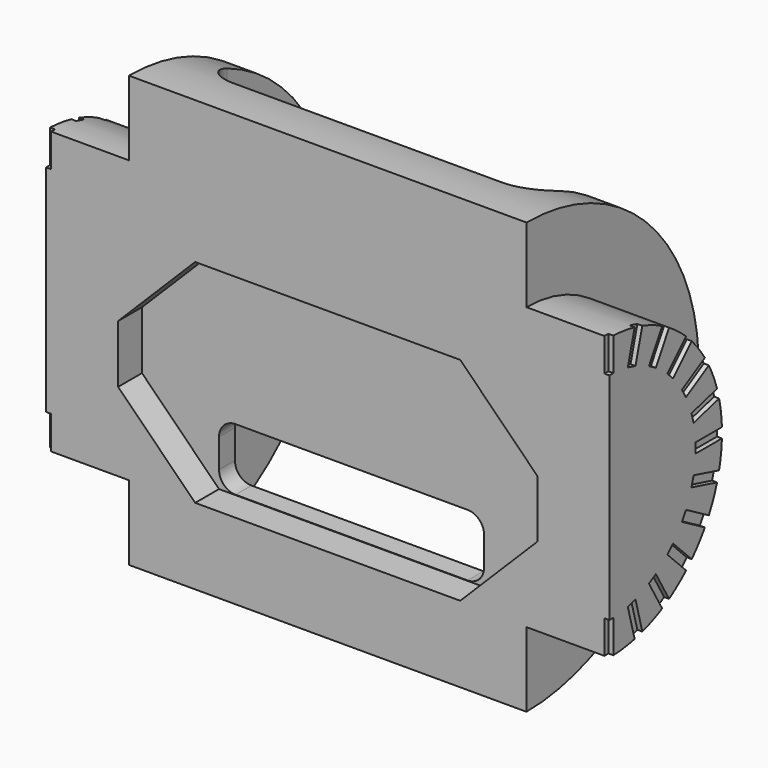
from build123d import *

# Parameters (mm, degrees)
REVOLUTION002_ANGLE                = -180
POCKET007_DEPTH                    = 80.350833
POCKET_DEPTH                       = 1.8
SKETCH021_W                        = 20
SKETCH021_H                        = 30
POCKET009_DEPTH                    = 10.001
SKETCH022_W                        = 0.6
SKETCH022_H                        = 2
POCKET010_DEPTH                    = 0.3
SKETCH022_POLARPATTERN001_2_W      = 0.6
SKETCH022_POLARPATTERN001_2_H      = 2
POCKET010_POLARPATTERN001_2_DEPTH  = 0.3
SKETCH022_POLARPATTERN001_3_W      = 0.6
SKETCH022_POLARPATTERN001_3_H      = 2
POCKET010_POLARPATTERN001_3_DEPTH  = 0.3
SKETCH022_POLARPATTERN001_4_W      = 0.6
SKETCH022_POLARPATTERN001_4_H      = 2
POCKET010_POLARPATTERN001_4_DEPTH  = 0.3
SKETCH022_POLARPATTERN001_5_W      = 0.6
SKETCH022_POLARPATTERN001_5_H      = 2
POCKET010_POLARPATTERN001_5_DEPTH  = 0.3
SKETCH022_POLARPATTERN001_6_W      = 0.6
SKETCH022_POLARPATTERN001_6_H      = 2
POCKET010_POLARPATTERN001_6_DEPTH  = 0.3
SKETCH022_POLARPATTERN001_7_W      = 0.6
SKETCH022_POLARPATTERN001_7_H      = 2
POCKET010_POLARPATTERN001_7_DEPTH  = 0.3
SKETCH022_POLARPATTERN001_8_W      = 0.6
SKETCH022_POLARPATTERN001_8_H      = 2
POCKET010_POLARPATTERN001_8_DEPTH  = 0.3
SKETCH022_POLARPATTERN001_9_W      = 0.6
SKETCH022_POLARPATTERN001_9_H      = 2
POCKET010_POLARPATTERN001_9_DEPTH  = 0.3
SKETCH022_POLARPATTERN001_10_W     = 0.6
SKETCH022_POLARPATTERN001_10_H     = 2
POCKET010_POLARPATTERN001_10_DEPTH = 0.3
SKETCH022_POLARPATTERN001_11_W     = 0.6
SKETCH022_POLARPATTERN001_11_H     = 2
POCKET010_POLARPATTERN001_11_DEPTH = 0.3
SKETCH022_POLARPATTERN001_12_W     = 0.6
SKETCH022_POLARPATTERN001_12_H     = 2
POCKET010_POLARPATTERN001_12_DEPTH = 0.3
SKETCH022_POLARPATTERN001_13_W     = 0.6
SKETCH022_POLARPATTERN001_13_H     = 2
POCKET010_POLARPATTERN001_13_DEPTH = 0.3
FILLET005_R                        = 1.9


with BuildPart() as part:
    # Sketch011 → Revolution002 (revolve)
    with BuildSketch(Plane.XZ):
        Polygon((0, 13), (12, 13), (12, 8.5), (17, 8.5), (17, 0), (0, 0), align=None)
    revolution002 = revolve(axis=Axis((0, 0, 0), (1, 0, 0)), revolution_arc=REVOLUTION002_ANGLE)

    # Sketch017 → Pocket007 (cut, through all)
    with BuildSketch(Plane(origin=(0, 0, 0), x_dir=(-1, 0, 0), z_dir=(0, 1, 0))):
        with BuildLine():
            Line((-7, -8.375), (0, -8.375))
            Line((0, -8.375), (0, -4.625))
            Line((-7, -4.625), (0, -4.625))
            ThreePointArc((-7, -4.625), (-7.707107, -4.917893), (-8, -5.625))
            Line((-8, -7.375), (-8, -5.625))
            ThreePointArc((-8, -7.375), (-7.707107, -8.082107), (-7, -8.375))
        make_face()
    pocket007 = extrude(amount=POCKET007_DEPTH, mode=Mode.SUBTRACT)

    # Sketch024 (on XZ_Plane009 of Origin012) → Pocket (cut)
    with BuildSketch(Plane.XZ):
        Polygon((8, 4.4), (0, 4.4), (0, -8.4), (8, -8.4), (12.65, -3.75), (12.65, -0.25), align=None)
    pocket = extrude(amount=-POCKET_DEPTH, mode=Mode.SUBTRACT)

    # Mirrored001: Revolution002, Pocket007, Pocket across Sketch011 V_Axis
    add(revolution002.mirror(Plane(origin=(0, 0, 0), x_dir=(0, -1, 0), z_dir=(1, 0, 0))))
    add(pocket007.mirror(Plane(origin=(0, 0, 0), x_dir=(0, -1, 0), z_dir=(1, 0, 0))), mode=Mode.SUBTRACT)
    add(pocket.mirror(Plane(origin=(0, 0, 0), x_dir=(0, -1, 0), z_dir=(1, 0, 0))), mode=Mode.SUBTRACT)

    # Sketch021 → Pocket009 (cut, through all)
    with BuildSketch(Plane(origin=(0, 3, 0), x_dir=(-1, 0, 0), z_dir=(0, 1, 0))):
        Rectangle(SKETCH021_W, SKETCH021_H)
    extrude(amount=POCKET009_DEPTH, mode=Mode.SUBTRACT)

    # Sketch022 → Pocket010 (cut)
    with BuildSketch(Plane.YZ.offset(17)):
        with Locations((0, 7.5)):
            Rectangle(SKETCH022_W, SKETCH022_H)
    pocket010 = extrude(amount=-POCKET010_DEPTH, mode=Mode.SUBTRACT)

    # Sketch022 PolarPattern001 2 → Pocket010 PolarPattern001 2 (cut)
    with BuildSketch(Plane(origin=(17, 0, 0), x_dir=(0, 0.965926, -0.258819), z_dir=(1, 0, 0))):
        with Locations((0, 7.5)):
            Rectangle(SKETCH022_POLARPATTERN001_2_W, SKETCH022_POLARPATTERN001_2_H)
    pocket010_polarpattern001_2 = extrude(amount=-POCKET010_POLARPATTERN001_2_DEPTH, mode=Mode.SUBTRACT)

    # Sketch022 PolarPattern001 3 → Pocket010 PolarPattern001 3 (cut)
    with BuildSketch(Plane(origin=(17, 0, 0), x_dir=(0, 0.866025, -0.5), z_dir=(1, 0, 0))):
        with Locations((0, 7.5)):
            Rectangle(SKETCH022_POLARPATTERN001_3_W, SKETCH022_POLARPATTERN001_3_H)
    pocket010_polarpattern001_3 = extrude(amount=-POCKET010_POLARPATTERN001_3_DEPTH, mode=Mode.SUBTRACT)

    # Sketch022 PolarPattern001 4 → Pocket010 PolarPattern001 4 (cut)
    with BuildSketch(Plane(origin=(17, 0, 0), x_dir=(0, 0.707107, -0.707107), z_dir=(1, 0, 0))):
        with Locations((0, 7.5)):
            Rectangle(SKETCH022_POLARPATTERN001_4_W, SKETCH022_POLARPATTERN001_4_H)
    pocket010_polarpattern001_4 = extrude(amount=-POCKET010_POLARPATTERN001_4_DEPTH, mode=Mode.SUBTRACT)

    # Sketch022 PolarPattern001 5 → Pocket010 PolarPattern001 5 (cut)
    with BuildSketch(Plane(origin=(17, 0, 0), x_dir=(0, 0.5, -0.866025), z_dir=(1, 0, 0))):
        with Locations((0, 7.5)):
            Rectangle(SKETCH022_POLARPATTERN001_5_W, SKETCH022_POLARPATTERN001_5_H)
    pocket010_polarpattern001_5 = extrude(amount=-POCKET010_POLARPATTERN001_5_DEPTH, mode=Mode.SUBTRACT)

    # Sketch022 PolarPattern001 6 → Pocket010 PolarPattern001 6 (cut)
    with BuildSketch(Plane(origin=(17, 0, 0), x_dir=(0, 0.258819, -0.965926), z_dir=(1, 0, 0))):
        with Locations((0, 7.5)):
            Rectangle(SKETCH022_POLARPATTERN001_6_W, SKETCH022_POLARPATTERN001_6_H)
    pocket010_polarpattern001_6 = extrude(amount=-POCKET010_POLARPATTERN001_6_DEPTH, mode=Mode.SUBTRACT)

    # Sketch022 PolarPattern001 7 → Pocket010 PolarPattern001 7 (cut)
    with BuildSketch(Plane(origin=(17, 0, 0), x_dir=(0, 0, -1), z_dir=(1, 0, 0))):
        with Locations((0, 7.5)):
            Rectangle(SKETCH022_POLARPATTERN001_7_W, SKETCH022_POLARPATTERN001_7_H)
    pocket010_polarpattern001_7 = extrude(amount=-POCKET010_POLARPATTERN001_7_DEPTH, mode=Mode.SUBTRACT)

    # Sketch022 PolarPattern001 8 → Pocket010 PolarPattern001 8 (cut)
    with BuildSketch(Plane(origin=(17, 0, 0), x_dir=(0, -0.258819, -0.965926), z_dir=(1, 0, 0))):
        with Locations((0, 7.5)):
            Rectangle(SKETCH022_POLARPATTERN001_8_W, SKETCH022_POLARPATTERN001_8_H)
    pocket010_polarpattern001_8 = extrude(amount=-POCKET010_POLARPATTERN001_8_DEPTH, mode=Mode.SUBTRACT)

    # Sketch022 PolarPattern001 9 → Pocket010 PolarPattern001 9 (cut)
    with BuildSketch(Plane(origin=(17, 0, 0), x_dir=(0, -0.5, -0.866025), z_dir=(1, 0, 0))):
        with Locations((0, 7.5)):
            Rectangle(SKETCH022_POLARPATTERN001_9_W, SKETCH022_POLARPATTERN001_9_H)
    pocket010_polarpattern001_9 = extrude(amount=-POCKET010_POLARPATTERN001_9_DEPTH, mode=Mode.SUBTRACT)

    # Sketch022 PolarPattern001 10 → Pocket010 PolarPattern001 10 (cut)
    with BuildSketch(Plane(origin=(17, 0, 0), x_dir=(0, -0.707107, -0.707107), z_dir=(1, 0, 0))):
        with Locations((0, 7.5)):
            Rectangle(SKETCH022_POLARPATTERN001_10_W, SKETCH022_POLARPATTERN001_10_H)
    pocket010_polarpattern001_10 = extrude(amount=-POCKET010_POLARPATTERN001_10_DEPTH, mode=Mode.SUBTRACT)

    # Sketch022 PolarPattern001 11 → Pocket010 PolarPattern001 11 (cut)
    with BuildSketch(Plane(origin=(17, 0, 0), x_dir=(0, -0.866025, -0.5), z_dir=(1, 0, 0))):
        with Locations((0, 7.5)):
            Rectangle(SKETCH022_POLARPATTERN001_11_W, SKETCH022_POLARPATTERN001_11_H)
    pocket010_polarpattern001_11 = extrude(amount=-POCKET010_POLARPATTERN001_11_DEPTH, mode=Mode.SUBTRACT)

    # Sketch022 PolarPattern001 12 → Pocket010 PolarPattern001 12 (cut)
    with BuildSketch(Plane(origin=(17, 0, 0), x_dir=(0, -0.965926, -0.258819), z_dir=(1, 0, 0))):
        with Locations((0, 7.5)):
            Rectangle(SKETCH022_POLARPATTERN001_12_W, SKETCH022_POLARPATTERN001_12_H)
    pocket010_polarpattern001_12 = extrude(amount=-POCKET010_POLARPATTERN001_12_DEPTH, mode=Mode.SUBTRACT)

    # Sketch022 PolarPattern001 13 → Pocket010 PolarPattern001 13 (cut)
    with BuildSketch(Plane(origin=(17, 0, 0), x_dir=(0, -1, 0), z_dir=(1, 0, 0))):
        with Locations((0, 7.5)):
            Rectangle(SKETCH022_POLARPATTERN001_13_W, SKETCH022_POLARPATTERN001_13_H)
    pocket010_polarpattern001_13 = extrude(amount=-POCKET010_POLARPATTERN001_13_DEPTH, mode=Mode.SUBTRACT)

    # Mirrored005: Pocket010, Pocket010 PolarPattern001 2, Pocket010 PolarPattern001 3, Pocket010 PolarPattern001 4, Pocket010 PolarPattern001 5, Pocket010 PolarPattern001 6, Pocket010 PolarPattern001 7, Pocket010 PolarPattern001 8, Pocket010 PolarPattern001 9, Pocket010 PolarPattern001 10, Pocket010 PolarPattern001 11, Pocket010 PolarPattern001 12, Pocket010 PolarPattern001 13 across YZ
    add(pocket010.mirror(Plane.YZ), mode=Mode.SUBTRACT)
    add(pocket010_polarpattern001_2.mirror(Plane.YZ), mode=Mode.SUBTRACT)
    add(pocket010_polarpattern001_3.mirror(Plane.YZ), mode=Mode.SUBTRACT)
    add(pocket010_polarpattern001_4.mirror(Plane.YZ), mode=Mode.SUBTRACT)
    add(pocket010_polarpattern001_5.mirror(Plane.YZ), mode=Mode.SUBTRACT)
    add(pocket010_polarpattern001_6.mirror(Plane.YZ), mode=Mode.SUBTRACT)
    add(pocket010_polarpattern001_7.mirror(Plane.YZ), mode=Mode.SUBTRACT)
    add(pocket010_polarpattern001_8.mirror(Plane.YZ), mode=Mode.SUBTRACT)
    add(pocket010_polarpattern001_9.mirror(Plane.YZ), mode=Mode.SUBTRACT)
    add(pocket010_polarpattern001_10.mirror(Plane.YZ), mode=Mode.SUBTRACT)
    add(pocket010_polarpattern001_11.mirror(Plane.YZ), mode=Mode.SUBTRACT)
    add(pocket010_polarpattern001_12.mirror(Plane.YZ), mode=Mode.SUBTRACT)
    add(pocket010_polarpattern001_13.mirror(Plane.YZ), mode=Mode.SUBTRACT)

    # Fillet005
    fillet005_edges = [part.edges().sort_by_distance(p)[0] for p in [
        (-10, 3, 0),
        (10, 3, 0),
    ]]
    fillet(fillet005_edges, radius=FILLET005_R)


solid = part.part
